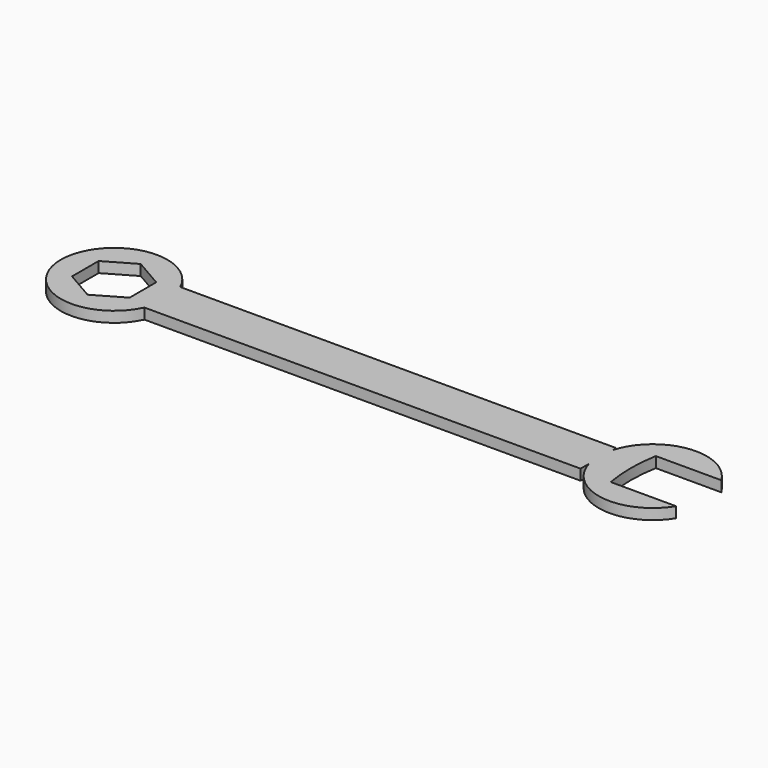
from build123d import *

# Parameters (mm, degrees)
F0_R          = 6.349014
F1_DEPTH      = 1.27
F2_DEPTH      = 1.27
F3_W          = 52.788634
F3_H          = 5.319013
F4_DEPTH      = 1.27
F5_R          = 6.442503
F6_DEPTH      = 1.27
F8_DEPTH      = 12.7
F8_DEPTH_BACK = 25.4
F10_DEPTH     = 12.7


with BuildPart() as f1:
    # F0 (on Top) → F1 (new body)
    with BuildSketch(Plane.XY):
        with Locations((-57.772908, 15.168429)):
            Circle(F0_R)
    extrude(amount=F1_DEPTH)

    # F0 (on Top) → F2 (join)
    with BuildSketch(Plane.XY):
        with Locations((-57.772908, 15.168429)):
            Circle(F0_R)
    extrude(amount=F2_DEPTH)

    # F3 (on Top) → F4 (join)
    with BuildSketch(Plane.XY):
        with Locations((-26.394317, 15.146691)):
            Rectangle(F3_W, F3_H)
    extrude(amount=F4_DEPTH)

    # F5 (on Top) → F6 (join)
    with BuildSketch(Plane.XY):
        with Locations((6.190753, 15.51234)):
            Circle(F5_R)
    extrude(amount=F6_DEPTH)

    # F7 (on face) → F8 (cut, two sides)
    with BuildSketch(Plane.XY.offset(1.27)) as f8_sk:
        Polygon((-54.338023, 13.185297), (-54.338023, 17.151561), (-57.772908, 19.134693), (-61.207794, 17.151561), (-61.207794, 13.185297), (-57.772908, 11.202165), align=None)
    extrude(amount=-F8_DEPTH, mode=Mode.SUBTRACT)
    extrude(f8_sk.sketch, amount=-F8_DEPTH_BACK, mode=Mode.SUBTRACT)

    # F9 (on face) → F10 (cut)
    with BuildSketch(Plane.XY.offset(1.27)):
        with BuildLine():
            Line((3.883671, 12.134312), (11.676623, 12.134312))
            ThreePointArc((11.676623, 12.134312), (15.03445, 15.492139), (11.676623, 18.849965))
            Line((11.676623, 18.849965), (3.883671, 18.849965))
            ThreePointArc((3.883671, 18.849965), (3.584843, 15.492139), (3.883671, 12.134312))
        make_face()
    extrude(amount=-F10_DEPTH, mode=Mode.SUBTRACT)


solid = f1.part
